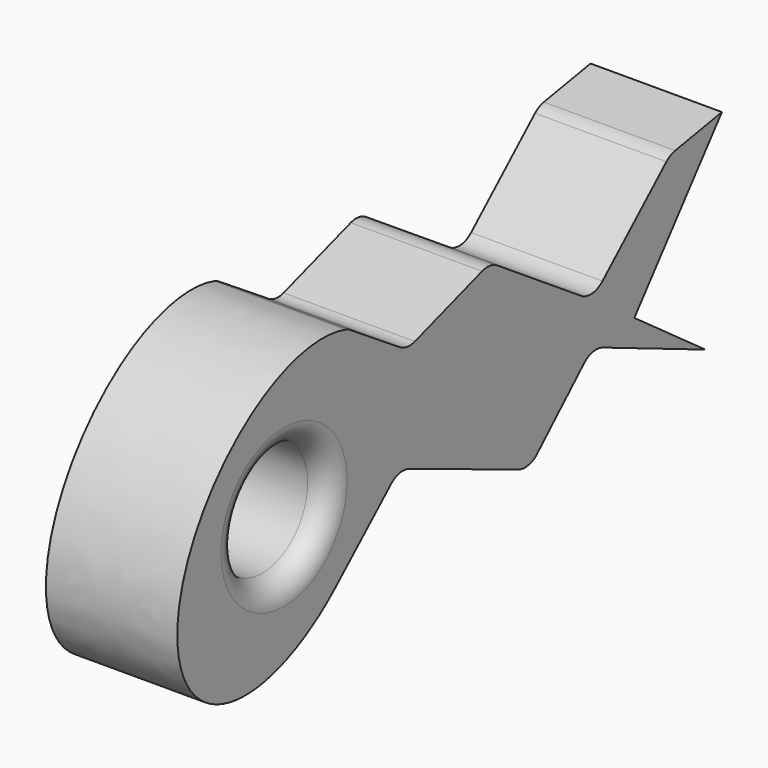
from build123d import *

# Parameters (mm, degrees)
F0_R     = 13
F1_DEPTH = 30
F2_R     = 5


with BuildPart() as f1:
    # F0 (on Right) → F1 (new body)
    with BuildSketch(Plane.YZ):
        with BuildLine():
            Line((57.6624141952, 19.9884392769), (40.9051534027, 30.906049397))
            add(Edge.make_bspline(
                [(40.9051534027, 30.906049397), (-3.5142712129, 46.4452369145), (-7.8184404914, -8.4340354173), (-12.12260977, -63.3133077491), (36.927722639, -19.8072223032)],
                knots=[0.2862633827, 0.2862633827, 0.2862633827, 2.4250702433, 2.4250702433, 4.5638771039, 4.5638771039, 4.5638771039], degree=2, weights=[1, 0.4806474548, 1, 0.4806474548, 1]))
            Line((36.927722639, -19.8072223032), (55.4783686194, -3.0479402867))
            Line((55.4783686194, -3.0479402867), (92.4668832048, -18.2745547747))
            Line((92.4668832048, -18.2745547747), (110.5870801787, -1.0507787188))
            Line((110.5870801787, -1.0507787188), (142.8511514965, -14.6165334712))
            Line((142.8511514965, -14.6165334712), (122.5692149695, 0))
            Line((122.5692149695, 0), (147.5692149695, 31.224989992))
            Line((147.5692149695, 31.224989992), (132.7915793322, 28.6517653669))
            Line((132.7915793322, 28.6517653669), (110.5870801787, 8.4785103657))
            Line((110.5870801787, 8.4785103657), (81.4082953293, 27.8072070292))
            Line((81.4082953293, 27.8072070292), (57.6624141952, 19.9884392769))
        make_face()
        with Locations((22.5692149695, 0.65819383)):
            Circle(F0_R, mode=Mode.SUBTRACT)
    extrude(amount=F1_DEPTH)

    # F2
    f2_edges = [f1.edges().sort_by_distance(p)[0] for p in [
        (30, 9.569215, 0.658194),
        (15, 55.478369, -3.04794),
        (15, 92.466883, -18.274555),
        (15, 110.58708, -1.050779),
        (15, 132.791579, 28.651765),
        (15, 110.58708, 8.47851),
        (15, 81.408295, 27.807207),
        (15, 57.662414, 19.988439),
        (15, 40.905153, 30.906049),
    ]]
    fillet(f2_edges, radius=F2_R)


solid = f1.part
